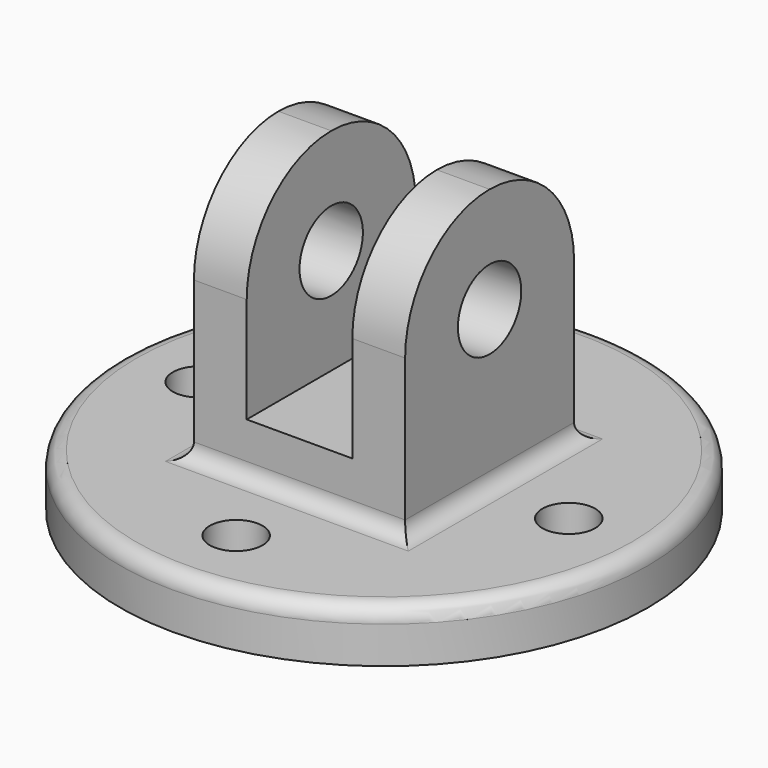
from build123d import *

# Parameters (mm, degrees)
F0_R     = 63.5
F0_R_2   = 6.35
F1_DEPTH = 12.7
F2_W     = 25.4
F2_H     = 50.8
F3_DEPTH = 12.7
F2_W_2   = 12.7
F4_DEPTH = 63.5
F5_R     = 9.525
F6_DEPTH = 88.901
F7_R     = 3.81


with BuildPart() as f1:
    # F0 (on Top) → F1 (new body)
    with BuildSketch(Plane.XY):
        Circle(F0_R)
        with Locations((0, -44.45)):
            Circle(F0_R_2, mode=Mode.SUBTRACT)
        with Locations((-44.45, 0)):
            Circle(F0_R_2, mode=Mode.SUBTRACT)
        with Locations((44.45, 0)):
            Circle(F0_R_2, mode=Mode.SUBTRACT)
        with Locations((0, 44.45)):
            Circle(F0_R_2, mode=Mode.SUBTRACT)
    extrude(amount=F1_DEPTH)

    # F2 (on face) → F3 (join)
    with BuildSketch(Plane.XY.offset(12.7)):
        Rectangle(F2_W, F2_H)
    extrude(amount=F3_DEPTH)

    # F2 (on face) → F4 (join)
    with BuildSketch(Plane.XY.offset(12.7)):
        with Locations((-19.05, 0)):
            Rectangle(F2_W_2, F2_H)
        with Locations((19.05, 0)):
            Rectangle(F2_W_2, F2_H)
    extrude(amount=F4_DEPTH)

    # F5 (on face) → F6 (cut, through all)
    with BuildSketch(Plane(origin=(-25.4, 0, 0), x_dir=(0, -1, 0), z_dir=(-1, 0, 0))):
        with Locations((0, 50.8)):
            Circle(F5_R)
        with BuildLine():
            Line((25.4, 76.2), (0, 76.2))
            ThreePointArc((0, 76.2), (17.960512, 68.760512), (25.4, 50.8))
            Line((25.4, 50.8), (25.4, 76.2))
        make_face()
        with BuildLine():
            Line((-25.4, 76.2), (-25.4, 50.8))
            ThreePointArc((-25.4, 50.8), (-17.960512, 68.760512), (0, 76.2))
            Line((0, 76.2), (-25.4, 76.2))
        make_face()
    extrude(amount=-F6_DEPTH, mode=Mode.SUBTRACT)

    # F7
    f7_edges = [f1.edges().sort_by_distance(p)[0] for p in [
        (-63.5, 0, 12.7),
        (-25.4, 0, 12.7),
        (25.4, 0, 12.7),
        (0, -25.4, 12.7),
        (0, 25.4, 12.7),
    ]]
    fillet(f7_edges, radius=F7_R)


solid = f1.part
